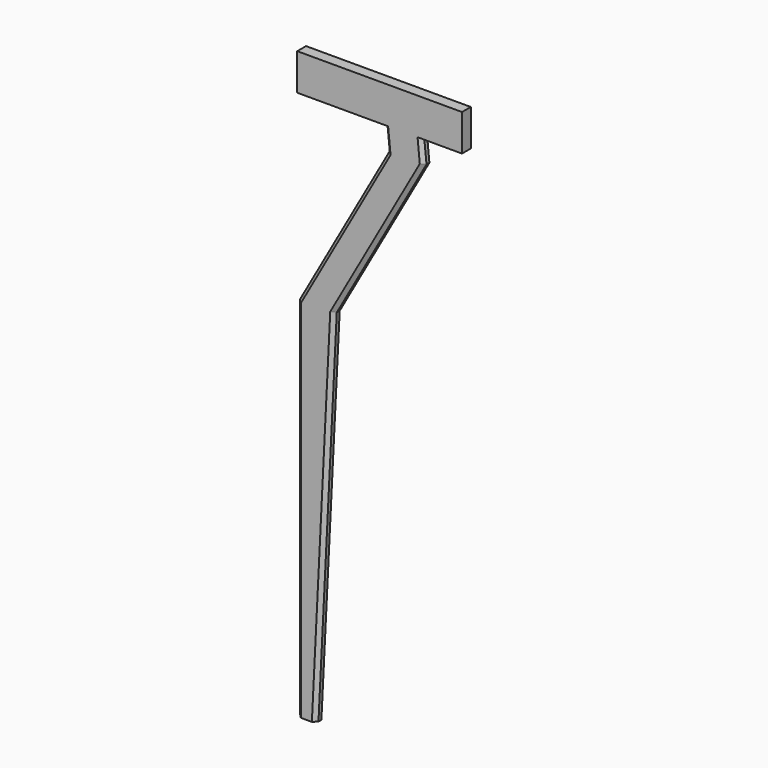
from build123d import *

# Parameters (mm, degrees)
F1_DEPTH = 15.24
F2_SIZE  = 5.08


with BuildPart() as f1:
    # F0 (on Front) → F1 (new body)
    with BuildSketch(Plane.XZ):
        Polygon((0, 508), (0, 0), (25.4, 0), (50.8, 508), (175.280874, 729.405763), (172.053954, 762), (228.6, 762), (228.6, 812.8), (0, 812.8), (0, 762), (121.005602, 762), (124.269706, 729.030173), align=None)
    extrude(amount=F1_DEPTH)

    # F2
    f2_edges = [f1.edges().sort_by_distance(p)[0] for p in [
        (113.040437, -15.24, 618.702882),
        (38.1, -15.24, 254),
        (0, -15.24, 254),
        (62.134853, -15.24, 618.515087),
        (0, 0, 254),
        (62.134853, 0, 618.515087),
        (38.1, 0, 254),
        (113.040437, 0, 618.702882),
        (122.637654, 0, 745.515087),
        (173.667414, 0, 745.702882),
        (173.667414, -15.24, 745.702882),
        (122.637654, -15.24, 745.515087),
    ]]
    chamfer(f2_edges, length=F2_SIZE)


solid = f1.part
